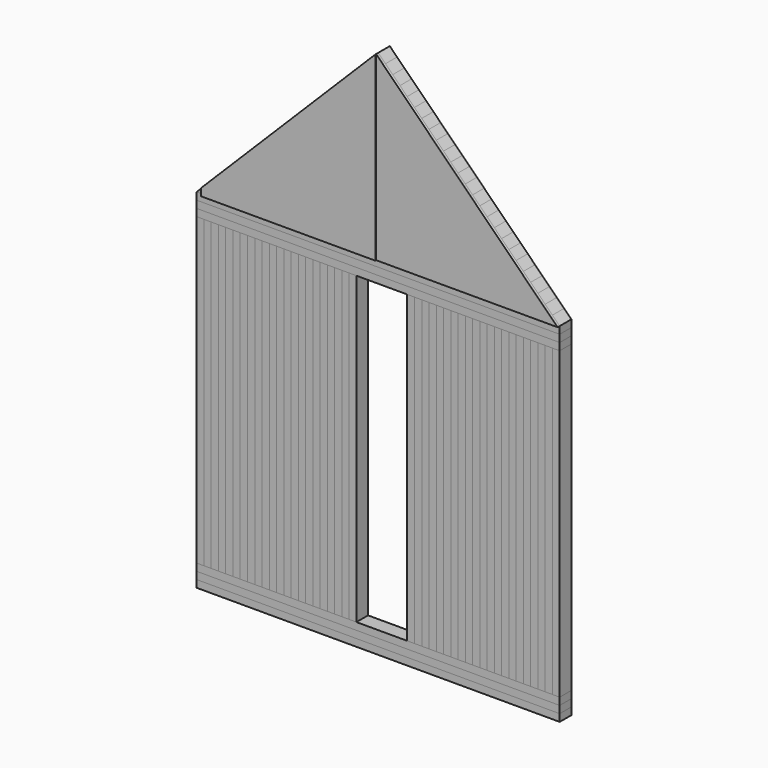
from build123d import *

# Parameters (mm, degrees)
F1_DEPTH  = 100
F2_DEPTH  = 100
F0_W      = 50
F0_H      = 2100
F3_DEPTH  = 100
F0_W_2    = 2500
F0_H_2    = 50
F4_DEPTH  = 100
F6_DEPTH  = 25
F7_DEPTH  = 18
F8_DEPTH  = 100
F9_DEPTH  = 100
F10_DEPTH = 100


with BuildPart() as f1:
    # F0 (on Front) → F1 (new body)
    with BuildSketch(Plane.XZ):
        Polygon((-1807.993851216, 1168.3207270876), (-1857.993851216, 1118.3207270876), (-1807.993851216, 1118.3207270876), align=None)
    extrude(amount=F1_DEPTH)


with BuildPart() as f1b:
    # F0 (on Front) → F1, piece 2 (new body)
    with BuildSketch(Plane.XZ):
        Polygon((-1707.993851216, 1268.3207270876), (-1757.993851216, 1218.3207270876), (-1757.993851216, 1118.3207270876), (-1707.993851216, 1118.3207270876), align=None)
    extrude(amount=F1_DEPTH)


with BuildPart() as f1c:
    # F0 (on Front) → F1, piece 3 (new body)
    with BuildSketch(Plane.XZ):
        Polygon((-1607.993851216, 1368.3207270876), (-1657.993851216, 1318.3207270876), (-1657.993851216, 1118.3207270876), (-1607.993851216, 1118.3207270876), align=None)
    extrude(amount=F1_DEPTH)


with BuildPart() as f1d:
    # F0 (on Front) → F1, piece 4 (new body)
    with BuildSketch(Plane.XZ):
        Polygon((-1507.993851216, 1468.3207270876), (-1557.993851216, 1418.3207270876), (-1557.993851216, 1118.3207270876), (-1507.993851216, 1118.3207270876), align=None)
    extrude(amount=F1_DEPTH)


with BuildPart() as f1e:
    # F0 (on Front) → F1, piece 5 (new body)
    with BuildSketch(Plane.XZ):
        Polygon((-1407.993851216, 1568.3207270876), (-1457.993851216, 1518.3207270876), (-1457.993851216, 1118.3207270876), (-1407.993851216, 1118.3207270876), align=None)
    extrude(amount=F1_DEPTH)


with BuildPart() as f1f:
    # F0 (on Front) → F1, piece 6 (new body)
    with BuildSketch(Plane.XZ):
        Polygon((-1307.993851216, 1668.3207270876), (-1357.993851216, 1618.3207270876), (-1357.993851216, 1118.3207270876), (-1307.993851216, 1118.3207270876), align=None)
    extrude(amount=F1_DEPTH)


with BuildPart() as f1g:
    # F0 (on Front) → F1, piece 7 (new body)
    with BuildSketch(Plane.XZ):
        Polygon((-1207.993851216, 1768.3207270876), (-1257.993851216, 1718.3207270876), (-1257.993851216, 1118.3207270876), (-1207.993851216, 1118.3207270876), align=None)
    extrude(amount=F1_DEPTH)


with BuildPart() as f1h:
    # F0 (on Front) → F1, piece 8 (new body)
    with BuildSketch(Plane.XZ):
        Polygon((-1107.993851216, 1868.3207270876), (-1157.993851216, 1818.3207270876), (-1157.993851216, 1118.3207270876), (-1107.993851216, 1118.3207270876), align=None)
    extrude(amount=F1_DEPTH)


with BuildPart() as f1i:
    # F0 (on Front) → F1, piece 9 (new body)
    with BuildSketch(Plane.XZ):
        Polygon((-1007.993851216, 1968.3207270876), (-1057.993851216, 1918.3207270876), (-1057.993851216, 1118.3207270876), (-1007.993851216, 1118.3207270876), align=None)
    extrude(amount=F1_DEPTH)


with BuildPart() as f1j:
    # F0 (on Front) → F1, piece 10 (new body)
    with BuildSketch(Plane.XZ):
        Polygon((-907.993851216, 2068.3207270876), (-957.993851216, 2018.3207270876), (-957.993851216, 1118.3207270876), (-907.993851216, 1118.3207270876), align=None)
    extrude(amount=F1_DEPTH)


with BuildPart() as f1k:
    # F0 (on Front) → F1, piece 11 (new body)
    with BuildSketch(Plane.XZ):
        Polygon((-807.993851216, 2168.3207270876), (-857.993851216, 2118.3207270876), (-857.993851216, 1118.3207270876), (-807.993851216, 1118.3207270876), align=None)
    extrude(amount=F1_DEPTH)


with BuildPart() as f1l:
    # F0 (on Front) → F1, piece 12 (new body)
    with BuildSketch(Plane.XZ):
        Polygon((-707.993851216, 2268.3207270876), (-757.993851216, 2218.3207270876), (-757.993851216, 1118.3207270876), (-707.993851216, 1118.3207270876), align=None)
    extrude(amount=F1_DEPTH)


with BuildPart() as f1m:
    # F0 (on Front) → F1, piece 13 (new body)
    with BuildSketch(Plane.XZ):
        Polygon((-607.993851216, 2368.3207270876), (-657.993851216, 2318.3207270876), (-657.993851216, 1118.3207270876), (-607.993851216, 1118.3207270876), (-557.993851216, 1118.3207270876), (-557.993851216, 2318.3207270876), align=None)
    extrude(amount=F1_DEPTH)


with BuildPart() as f1n:
    # F0 (on Front) → F1, piece 14 (new body)
    with BuildSketch(Plane.XZ):
        Polygon((-457.993851216, 1118.3207270876), (-457.993851216, 2218.3207270876), (-507.993851216, 2268.3207270876), (-507.993851216, 1118.3207270876), align=None)
    extrude(amount=F1_DEPTH)


with BuildPart() as f1o:
    # F0 (on Front) → F1, piece 15 (new body)
    with BuildSketch(Plane.XZ):
        Polygon((-357.993851216, 1118.3207270876), (-357.993851216, 2118.3207270876), (-407.993851216, 2168.3207270876), (-407.993851216, 1118.3207270876), align=None)
    extrude(amount=F1_DEPTH)


with BuildPart() as f1p:
    # F0 (on Front) → F1, piece 16 (new body)
    with BuildSketch(Plane.XZ):
        Polygon((-257.993851216, 1118.3207270876), (-257.993851216, 2018.3207270876), (-307.993851216, 2068.3207270876), (-307.993851216, 1118.3207270876), align=None)
    extrude(amount=F1_DEPTH)


with BuildPart() as f1q:
    # F0 (on Front) → F1, piece 17 (new body)
    with BuildSketch(Plane.XZ):
        Polygon((-157.993851216, 1118.3207270876), (-157.993851216, 1918.3207270876), (-207.993851216, 1968.3207270876), (-207.993851216, 1118.3207270876), align=None)
    extrude(amount=F1_DEPTH)


with BuildPart() as f1r:
    # F0 (on Front) → F1, piece 18 (new body)
    with BuildSketch(Plane.XZ):
        Polygon((-57.993851216, 1118.3207270876), (-57.993851216, 1818.3207270876), (-107.993851216, 1868.3207270876), (-107.993851216, 1118.3207270876), align=None)
    extrude(amount=F1_DEPTH)


with BuildPart() as f1s:
    # F0 (on Front) → F1, piece 19 (new body)
    with BuildSketch(Plane.XZ):
        Polygon((42.006148784, 1118.3207270876), (42.006148784, 1718.3207270876), (-7.993851216, 1768.3207270876), (-7.993851216, 1118.3207270876), align=None)
    extrude(amount=F1_DEPTH)


with BuildPart() as f1t:
    # F0 (on Front) → F1, piece 20 (new body)
    with BuildSketch(Plane.XZ):
        Polygon((142.006148784, 1118.3207270876), (142.006148784, 1618.3207270876), (92.006148784, 1668.3207270876), (92.006148784, 1118.3207270876), align=None)
    extrude(amount=F1_DEPTH)


with BuildPart() as f1u:
    # F0 (on Front) → F1, piece 21 (new body)
    with BuildSketch(Plane.XZ):
        Polygon((242.006148784, 1118.3207270876), (242.006148784, 1518.3207270876), (192.006148784, 1568.3207270876), (192.006148784, 1118.3207270876), align=None)
    extrude(amount=F1_DEPTH)


with BuildPart() as f1v:
    # F0 (on Front) → F1, piece 22 (new body)
    with BuildSketch(Plane.XZ):
        Polygon((342.006148784, 1118.3207270876), (342.006148784, 1418.3207270876), (292.006148784, 1468.3207270876), (292.006148784, 1118.3207270876), align=None)
    extrude(amount=F1_DEPTH)


with BuildPart() as f1w:
    # F0 (on Front) → F1, piece 23 (new body)
    with BuildSketch(Plane.XZ):
        Polygon((442.006148784, 1118.3207270876), (442.006148784, 1318.3207270876), (392.006148784, 1368.3207270876), (392.006148784, 1118.3207270876), align=None)
    extrude(amount=F1_DEPTH)


with BuildPart() as f1x:
    # F0 (on Front) → F1, piece 24 (new body)
    with BuildSketch(Plane.XZ):
        Polygon((542.006148784, 1118.3207270876), (542.006148784, 1218.3207270876), (492.006148784, 1268.3207270876), (492.006148784, 1118.3207270876), align=None)
    extrude(amount=F1_DEPTH)


with BuildPart() as f1y:
    # F0 (on Front) → F1, piece 25 (new body)
    with BuildSketch(Plane.XZ):
        Polygon((592.006148784, 1118.3207270876), (642.006148784, 1118.3207270876), (592.006148784, 1168.3207270876), align=None)
    extrude(amount=F1_DEPTH)


with BuildPart() as f2:
    # F0 (on Front) → F2 (new body)
    with BuildSketch(Plane.XZ):
        Polygon((-1757.993851216, 1218.3207270876), (-1807.993851216, 1168.3207270876), (-1807.993851216, 1118.3207270876), (-1757.993851216, 1118.3207270876), align=None)
    extrude(amount=F2_DEPTH)


with BuildPart() as f2b:
    # F0 (on Front) → F2, piece 2 (new body)
    with BuildSketch(Plane.XZ):
        Polygon((-1657.993851216, 1318.3207270876), (-1707.993851216, 1268.3207270876), (-1707.993851216, 1118.3207270876), (-1657.993851216, 1118.3207270876), align=None)
    extrude(amount=F2_DEPTH)


with BuildPart() as f2c:
    # F0 (on Front) → F2, piece 3 (new body)
    with BuildSketch(Plane.XZ):
        Polygon((-1557.993851216, 1418.3207270876), (-1607.993851216, 1368.3207270876), (-1607.993851216, 1118.3207270876), (-1557.993851216, 1118.3207270876), align=None)
    extrude(amount=F2_DEPTH)


with BuildPart() as f2d:
    # F0 (on Front) → F2, piece 4 (new body)
    with BuildSketch(Plane.XZ):
        Polygon((-1457.993851216, 1518.3207270876), (-1507.993851216, 1468.3207270876), (-1507.993851216, 1118.3207270876), (-1457.993851216, 1118.3207270876), align=None)
    extrude(amount=F2_DEPTH)


with BuildPart() as f2e:
    # F0 (on Front) → F2, piece 5 (new body)
    with BuildSketch(Plane.XZ):
        Polygon((-1357.993851216, 1618.3207270876), (-1407.993851216, 1568.3207270876), (-1407.993851216, 1118.3207270876), (-1357.993851216, 1118.3207270876), align=None)
    extrude(amount=F2_DEPTH)


with BuildPart() as f2f:
    # F0 (on Front) → F2, piece 6 (new body)
    with BuildSketch(Plane.XZ):
        Polygon((-1257.993851216, 1718.3207270876), (-1307.993851216, 1668.3207270876), (-1307.993851216, 1118.3207270876), (-1257.993851216, 1118.3207270876), align=None)
    extrude(amount=F2_DEPTH)


with BuildPart() as f2g:
    # F0 (on Front) → F2, piece 7 (new body)
    with BuildSketch(Plane.XZ):
        Polygon((-1157.993851216, 1818.3207270876), (-1207.993851216, 1768.3207270876), (-1207.993851216, 1118.3207270876), (-1157.993851216, 1118.3207270876), align=None)
    extrude(amount=F2_DEPTH)


with BuildPart() as f2h:
    # F0 (on Front) → F2, piece 8 (new body)
    with BuildSketch(Plane.XZ):
        Polygon((-1057.993851216, 1918.3207270876), (-1107.993851216, 1868.3207270876), (-1107.993851216, 1118.3207270876), (-1057.993851216, 1118.3207270876), align=None)
    extrude(amount=F2_DEPTH)


with BuildPart() as f2i:
    # F0 (on Front) → F2, piece 9 (new body)
    with BuildSketch(Plane.XZ):
        Polygon((-957.993851216, 2018.3207270876), (-1007.993851216, 1968.3207270876), (-1007.993851216, 1118.3207270876), (-957.993851216, 1118.3207270876), align=None)
    extrude(amount=F2_DEPTH)


with BuildPart() as f2j:
    # F0 (on Front) → F2, piece 10 (new body)
    with BuildSketch(Plane.XZ):
        Polygon((-857.993851216, 2118.3207270876), (-907.993851216, 2068.3207270876), (-907.993851216, 1118.3207270876), (-857.993851216, 1118.3207270876), align=None)
    extrude(amount=F2_DEPTH)


with BuildPart() as f2k:
    # F0 (on Front) → F2, piece 11 (new body)
    with BuildSketch(Plane.XZ):
        Polygon((-757.993851216, 2218.3207270876), (-807.993851216, 2168.3207270876), (-807.993851216, 1118.3207270876), (-757.993851216, 1118.3207270876), align=None)
    extrude(amount=F2_DEPTH)


with BuildPart() as f2l:
    # F0 (on Front) → F2, piece 12 (new body)
    with BuildSketch(Plane.XZ):
        Polygon((-657.993851216, 2318.3207270876), (-707.993851216, 2268.3207270876), (-707.993851216, 1118.3207270876), (-657.993851216, 1118.3207270876), align=None)
    extrude(amount=F2_DEPTH)


with BuildPart() as f2m:
    # F0 (on Front) → F2, piece 13 (new body)
    with BuildSketch(Plane.XZ):
        Polygon((-507.993851216, 1118.3207270876), (-507.993851216, 2268.3207270876), (-557.993851216, 2318.3207270876), (-557.993851216, 1118.3207270876), align=None)
    extrude(amount=F2_DEPTH)


with BuildPart() as f2n:
    # F0 (on Front) → F2, piece 14 (new body)
    with BuildSketch(Plane.XZ):
        Polygon((-407.993851216, 1118.3207270876), (-407.993851216, 2168.3207270876), (-457.993851216, 2218.3207270876), (-457.993851216, 1118.3207270876), align=None)
    extrude(amount=F2_DEPTH)


with BuildPart() as f2o:
    # F0 (on Front) → F2, piece 15 (new body)
    with BuildSketch(Plane.XZ):
        Polygon((-307.993851216, 1118.3207270876), (-307.993851216, 2068.3207270876), (-357.993851216, 2118.3207270876), (-357.993851216, 1118.3207270876), align=None)
    extrude(amount=F2_DEPTH)


with BuildPart() as f2p:
    # F0 (on Front) → F2, piece 16 (new body)
    with BuildSketch(Plane.XZ):
        Polygon((-207.993851216, 1118.3207270876), (-207.993851216, 1968.3207270876), (-257.993851216, 2018.3207270876), (-257.993851216, 1118.3207270876), align=None)
    extrude(amount=F2_DEPTH)


with BuildPart() as f2q:
    # F0 (on Front) → F2, piece 17 (new body)
    with BuildSketch(Plane.XZ):
        Polygon((-107.993851216, 1118.3207270876), (-107.993851216, 1868.3207270876), (-157.993851216, 1918.3207270876), (-157.993851216, 1118.3207270876), align=None)
    extrude(amount=F2_DEPTH)


with BuildPart() as f2r:
    # F0 (on Front) → F2, piece 18 (new body)
    with BuildSketch(Plane.XZ):
        Polygon((-7.993851216, 1118.3207270876), (-7.993851216, 1768.3207270876), (-57.993851216, 1818.3207270876), (-57.993851216, 1118.3207270876), align=None)
    extrude(amount=F2_DEPTH)


with BuildPart() as f2s:
    # F0 (on Front) → F2, piece 19 (new body)
    with BuildSketch(Plane.XZ):
        Polygon((92.006148784, 1118.3207270876), (92.006148784, 1668.3207270876), (42.006148784, 1718.3207270876), (42.006148784, 1118.3207270876), align=None)
    extrude(amount=F2_DEPTH)


with BuildPart() as f2t:
    # F0 (on Front) → F2, piece 20 (new body)
    with BuildSketch(Plane.XZ):
        Polygon((192.006148784, 1118.3207270876), (192.006148784, 1568.3207270876), (142.006148784, 1618.3207270876), (142.006148784, 1118.3207270876), align=None)
    extrude(amount=F2_DEPTH)


with BuildPart() as f2u:
    # F0 (on Front) → F2, piece 21 (new body)
    with BuildSketch(Plane.XZ):
        Polygon((292.006148784, 1118.3207270876), (292.006148784, 1468.3207270876), (242.006148784, 1518.3207270876), (242.006148784, 1118.3207270876), align=None)
    extrude(amount=F2_DEPTH)


with BuildPart() as f2v:
    # F0 (on Front) → F2, piece 22 (new body)
    with BuildSketch(Plane.XZ):
        Polygon((392.006148784, 1118.3207270876), (392.006148784, 1368.3207270876), (342.006148784, 1418.3207270876), (342.006148784, 1118.3207270876), align=None)
    extrude(amount=F2_DEPTH)


with BuildPart() as f2w:
    # F0 (on Front) → F2, piece 23 (new body)
    with BuildSketch(Plane.XZ):
        Polygon((492.006148784, 1118.3207270876), (492.006148784, 1268.3207270876), (442.006148784, 1318.3207270876), (442.006148784, 1118.3207270876), align=None)
    extrude(amount=F2_DEPTH)


with BuildPart() as f2x:
    # F0 (on Front) → F2, piece 24 (new body)
    with BuildSketch(Plane.XZ):
        Polygon((592.006148784, 1118.3207270876), (592.006148784, 1168.3207270876), (542.006148784, 1218.3207270876), (542.006148784, 1118.3207270876), align=None)
    extrude(amount=F2_DEPTH)


with BuildPart() as f3:
    # F0 (on Front) → F3 (new body)
    with BuildSketch(Plane.XZ):
        with Locations((-1832.993851216, -81.6792729124)):
            Rectangle(F0_W, F0_H)
    extrude(amount=F3_DEPTH)


with BuildPart() as f3b:
    # F0 (on Front) → F3, piece 2 (new body)
    with BuildSketch(Plane.XZ):
        with Locations((-1732.993851216, -81.6792729124)):
            Rectangle(F0_W, F0_H)
    extrude(amount=F3_DEPTH)


with BuildPart() as f3c:
    # F0 (on Front) → F3, piece 3 (new body)
    with BuildSketch(Plane.XZ):
        with Locations((-607.993851216, -1206.6792729124)):
            Rectangle(F0_W_2, F0_H_2)
    extrude(amount=F3_DEPTH)


with BuildPart() as f3d:
    # F0 (on Front) → F3, piece 4 (new body)
    with BuildSketch(Plane.XZ):
        with Locations((517.006148784, -81.6792729124)):
            Rectangle(F0_W, F0_H)
    extrude(amount=F3_DEPTH)


with BuildPart() as f3e:
    # F0 (on Front) → F3, piece 5 (new body)
    with BuildSketch(Plane.XZ):
        with Locations((617.006148784, -81.6792729124)):
            Rectangle(F0_W, F0_H)
    extrude(amount=F3_DEPTH)


with BuildPart() as f3f:
    # F0 (on Front) → F3, piece 6 (new body)
    with BuildSketch(Plane.XZ):
        with Locations((-607.993851216, 1043.3207270876)):
            Rectangle(F0_W_2, F0_H_2)
    extrude(amount=F3_DEPTH)


with BuildPart() as f4:
    # F0 (on Front) → F4 (new body)
    with BuildSketch(Plane.XZ):
        Polygon((-1857.993851216, 1118.3207270876), (-1857.993851216, 1068.3207270876), (642.006148784, 1068.3207270876), (642.006148784, 1118.3207270876), (592.006148784, 1118.3207270876), (542.006148784, 1118.3207270876), (492.006148784, 1118.3207270876), (442.006148784, 1118.3207270876), (392.006148784, 1118.3207270876), (342.006148784, 1118.3207270876), (292.006148784, 1118.3207270876), (242.006148784, 1118.3207270876), (192.006148784, 1118.3207270876), (142.006148784, 1118.3207270876), (92.006148784, 1118.3207270876), (42.006148784, 1118.3207270876), (-7.993851216, 1118.3207270876), (-57.993851216, 1118.3207270876), (-107.993851216, 1118.3207270876), (-157.993851216, 1118.3207270876), (-207.993851216, 1118.3207270876), (-257.993851216, 1118.3207270876), (-307.993851216, 1118.3207270876), (-357.993851216, 1118.3207270876), (-407.993851216, 1118.3207270876), (-457.993851216, 1118.3207270876), (-507.993851216, 1118.3207270876), (-557.993851216, 1118.3207270876), (-607.993851216, 1118.3207270876), (-657.993851216, 1118.3207270876), (-707.993851216, 1118.3207270876), (-757.993851216, 1118.3207270876), (-807.993851216, 1118.3207270876), (-857.993851216, 1118.3207270876), (-907.993851216, 1118.3207270876), (-957.993851216, 1118.3207270876), (-1007.993851216, 1118.3207270876), (-1057.993851216, 1118.3207270876), (-1107.993851216, 1118.3207270876), (-1157.993851216, 1118.3207270876), (-1207.993851216, 1118.3207270876), (-1257.993851216, 1118.3207270876), (-1307.993851216, 1118.3207270876), (-1357.993851216, 1118.3207270876), (-1407.993851216, 1118.3207270876), (-1457.993851216, 1118.3207270876), (-1507.993851216, 1118.3207270876), (-1557.993851216, 1118.3207270876), (-1607.993851216, 1118.3207270876), (-1657.993851216, 1118.3207270876), (-1707.993851216, 1118.3207270876), (-1757.993851216, 1118.3207270876), (-1807.993851216, 1118.3207270876), align=None)
    extrude(amount=F4_DEPTH)


with BuildPart() as f4b:
    # F0 (on Front) → F4, piece 2 (new body)
    with BuildSketch(Plane.XZ):
        Polygon((-1857.993851216, 1018.3207270876), (-1857.993851216, 968.3207270876), (-1807.993851216, 968.3207270876), (-1757.993851216, 968.3207270876), (-1707.993851216, 968.3207270876), (-1657.993851216, 968.3207270876), (-1607.993851216, 968.3207270876), (-1557.993851216, 968.3207270876), (-1507.993851216, 968.3207270876), (-1457.993851216, 968.3207270876), (-1407.993851216, 968.3207270876), (-1357.993851216, 968.3207270876), (-1307.993851216, 968.3207270876), (-1257.993851216, 968.3207270876), (-1207.993851216, 968.3207270876), (-1157.993851216, 968.3207270876), (-1107.993851216, 968.3207270876), (-1057.993851216, 968.3207270876), (-1007.993851216, 968.3207270876), (-957.993851216, 968.3207270876), (-907.993851216, 968.3207270876), (-857.993851216, 968.3207270876), (-807.993851216, 968.3207270876), (-757.993851216, 968.3207270876), (-407.993851216, 968.3207270876), (-357.993851216, 968.3207270876), (-307.993851216, 968.3207270876), (-257.993851216, 968.3207270876), (-207.993851216, 968.3207270876), (-157.993851216, 968.3207270876), (-107.993851216, 968.3207270876), (-57.993851216, 968.3207270876), (-7.993851216, 968.3207270876), (42.006148784, 968.3207270876), (92.006148784, 968.3207270876), (142.006148784, 968.3207270876), (192.006148784, 968.3207270876), (242.006148784, 968.3207270876), (292.006148784, 968.3207270876), (342.006148784, 968.3207270876), (392.006148784, 968.3207270876), (442.006148784, 968.3207270876), (492.006148784, 968.3207270876), (542.006148784, 968.3207270876), (592.006148784, 968.3207270876), (642.006148784, 968.3207270876), (642.006148784, 1018.3207270876), align=None)
    extrude(amount=F4_DEPTH)


with BuildPart() as f4c:
    # F0 (on Front) → F4, piece 3 (new body)
    with BuildSketch(Plane.XZ):
        Polygon((-1857.993851216, -1131.6792729124), (-1857.993851216, -1181.6792729124), (642.006148784, -1181.6792729124), (642.006148784, -1131.6792729124), (592.006148784, -1131.6792729124), (542.006148784, -1131.6792729124), (492.006148784, -1131.6792729124), (442.006148784, -1131.6792729124), (392.006148784, -1131.6792729124), (342.006148784, -1131.6792729124), (292.006148784, -1131.6792729124), (242.006148784, -1131.6792729124), (192.006148784, -1131.6792729124), (142.006148784, -1131.6792729124), (92.006148784, -1131.6792729124), (42.006148784, -1131.6792729124), (-7.993851216, -1131.6792729124), (-57.993851216, -1131.6792729124), (-107.993851216, -1131.6792729124), (-157.993851216, -1131.6792729124), (-207.993851216, -1131.6792729124), (-257.993851216, -1131.6792729124), (-307.993851216, -1131.6792729124), (-357.993851216, -1131.6792729124), (-407.993851216, -1131.6792729124), (-757.993851216, -1131.6792729124), (-807.993851216, -1131.6792729124), (-857.993851216, -1131.6792729124), (-907.993851216, -1131.6792729124), (-957.993851216, -1131.6792729124), (-1007.993851216, -1131.6792729124), (-1057.993851216, -1131.6792729124), (-1107.993851216, -1131.6792729124), (-1157.993851216, -1131.6792729124), (-1207.993851216, -1131.6792729124), (-1257.993851216, -1131.6792729124), (-1307.993851216, -1131.6792729124), (-1357.993851216, -1131.6792729124), (-1407.993851216, -1131.6792729124), (-1457.993851216, -1131.6792729124), (-1507.993851216, -1131.6792729124), (-1557.993851216, -1131.6792729124), (-1607.993851216, -1131.6792729124), (-1657.993851216, -1131.6792729124), (-1707.993851216, -1131.6792729124), (-1757.993851216, -1131.6792729124), (-1807.993851216, -1131.6792729124), align=None)
    extrude(amount=F4_DEPTH)


with BuildPart() as f4d:
    # F0 (on Front) → F4, piece 4 (new body)
    with BuildSketch(Plane.XZ):
        with Locations((-607.993851216, -1256.6792729124)):
            Rectangle(F0_W_2, F0_H_2)
    extrude(amount=F4_DEPTH)


with BuildPart() as f6:
    # F5 (on face) → F6 (new body)
    with BuildSketch(Plane.XZ.offset(100)):
        Polygon((-607.993851216, 2368.3207270876), (-1807.993851216, 1168.3207270876), (-1807.993851216, 1118.3207270876), (-607.993851216, 1118.3207270876), align=None)
    extrude(amount=F6_DEPTH)


with BuildPart() as f7:
    # F5 (on face) → F7 (new body)
    with BuildSketch(Plane.XZ.offset(100)):
        Polygon((642.006148784, 1118.3207270876), (-607.993851216, 2368.3207270876), (-607.993851216, 1118.3207270876), align=None)
    extrude(amount=F7_DEPTH)


with BuildPart() as f8:
    # F0 (on Front) → F8 (new body)
    with BuildSketch(Plane.XZ):
        with Locations((-1782.993851216, -81.6792729124)):
            Rectangle(F0_W, F0_H)
    extrude(amount=F8_DEPTH)


with BuildPart() as f8b:
    # F0 (on Front) → F8, piece 2 (new body)
    with BuildSketch(Plane.XZ):
        with Locations((-1682.993851216, -81.6792729124)):
            Rectangle(F0_W, F0_H)
    extrude(amount=F8_DEPTH)


with BuildPart() as f8c:
    # F0 (on Front) → F8, piece 3 (new body)
    with BuildSketch(Plane.XZ):
        with Locations((-1582.993851216, -81.6792729124)):
            Rectangle(F0_W, F0_H)
    extrude(amount=F8_DEPTH)


with BuildPart() as f8d:
    # F0 (on Front) → F8, piece 4 (new body)
    with BuildSketch(Plane.XZ):
        with Locations((-1482.993851216, -81.6792729124)):
            Rectangle(F0_W, F0_H)
    extrude(amount=F8_DEPTH)


with BuildPart() as f8e:
    # F0 (on Front) → F8, piece 5 (new body)
    with BuildSketch(Plane.XZ):
        with Locations((-1382.993851216, -81.6792729124)):
            Rectangle(F0_W, F0_H)
    extrude(amount=F8_DEPTH)


with BuildPart() as f8f:
    # F0 (on Front) → F8, piece 6 (new body)
    with BuildSketch(Plane.XZ):
        with Locations((-1282.993851216, -81.6792729124)):
            Rectangle(F0_W, F0_H)
    extrude(amount=F8_DEPTH)


with BuildPart() as f8g:
    # F0 (on Front) → F8, piece 7 (new body)
    with BuildSketch(Plane.XZ):
        with Locations((-1182.993851216, -81.6792729124)):
            Rectangle(F0_W, F0_H)
    extrude(amount=F8_DEPTH)


with BuildPart() as f8h:
    # F0 (on Front) → F8, piece 8 (new body)
    with BuildSketch(Plane.XZ):
        with Locations((-1082.993851216, -81.6792729124)):
            Rectangle(F0_W, F0_H)
    extrude(amount=F8_DEPTH)


with BuildPart() as f8i:
    # F0 (on Front) → F8, piece 9 (new body)
    with BuildSketch(Plane.XZ):
        with Locations((-982.993851216, -81.6792729124)):
            Rectangle(F0_W, F0_H)
    extrude(amount=F8_DEPTH)


with BuildPart() as f8j:
    # F0 (on Front) → F8, piece 10 (new body)
    with BuildSketch(Plane.XZ):
        with Locations((-882.993851216, -81.6792729124)):
            Rectangle(F0_W, F0_H)
    extrude(amount=F8_DEPTH)


with BuildPart() as f8k:
    # F0 (on Front) → F8, piece 11 (new body)
    with BuildSketch(Plane.XZ):
        with Locations((-782.993851216, -81.6792729124)):
            Rectangle(F0_W, F0_H)
    extrude(amount=F8_DEPTH)


with BuildPart() as f8l:
    # F0 (on Front) → F8, piece 12 (new body)
    with BuildSketch(Plane.XZ):
        with Locations((567.006148784, -81.6792729124)):
            Rectangle(F0_W, F0_H)
    extrude(amount=F8_DEPTH)


with BuildPart() as f8m:
    # F0 (on Front) → F8, piece 13 (new body)
    with BuildSketch(Plane.XZ):
        with Locations((467.006148784, -81.6792729124)):
            Rectangle(F0_W, F0_H)
    extrude(amount=F8_DEPTH)


with BuildPart() as f8n:
    # F0 (on Front) → F8, piece 14 (new body)
    with BuildSketch(Plane.XZ):
        with Locations((367.006148784, -81.6792729124)):
            Rectangle(F0_W, F0_H)
    extrude(amount=F8_DEPTH)


with BuildPart() as f8o:
    # F0 (on Front) → F8, piece 15 (new body)
    with BuildSketch(Plane.XZ):
        with Locations((267.006148784, -81.6792729124)):
            Rectangle(F0_W, F0_H)
    extrude(amount=F8_DEPTH)


with BuildPart() as f8p:
    # F0 (on Front) → F8, piece 16 (new body)
    with BuildSketch(Plane.XZ):
        with Locations((167.006148784, -81.6792729124)):
            Rectangle(F0_W, F0_H)
    extrude(amount=F8_DEPTH)


with BuildPart() as f8q:
    # F0 (on Front) → F8, piece 17 (new body)
    with BuildSketch(Plane.XZ):
        with Locations((67.006148784, -81.6792729124)):
            Rectangle(F0_W, F0_H)
    extrude(amount=F8_DEPTH)


with BuildPart() as f8r:
    # F0 (on Front) → F8, piece 18 (new body)
    with BuildSketch(Plane.XZ):
        with Locations((-32.993851216, -81.6792729124)):
            Rectangle(F0_W, F0_H)
    extrude(amount=F8_DEPTH)


with BuildPart() as f8s:
    # F0 (on Front) → F8, piece 19 (new body)
    with BuildSketch(Plane.XZ):
        with Locations((-132.993851216, -81.6792729124)):
            Rectangle(F0_W, F0_H)
    extrude(amount=F8_DEPTH)


with BuildPart() as f8t:
    # F0 (on Front) → F8, piece 20 (new body)
    with BuildSketch(Plane.XZ):
        with Locations((-232.993851216, -81.6792729124)):
            Rectangle(F0_W, F0_H)
    extrude(amount=F8_DEPTH)


with BuildPart() as f8u:
    # F0 (on Front) → F8, piece 21 (new body)
    with BuildSketch(Plane.XZ):
        with Locations((-332.993851216, -81.6792729124)):
            Rectangle(F0_W, F0_H)
    extrude(amount=F8_DEPTH)


with BuildPart() as f9:
    # F0 (on Front) → F9 (new body)
    with BuildSketch(Plane.XZ):
        with Locations((-1632.993851216, -81.6792729124)):
            Rectangle(F0_W, F0_H)
    extrude(amount=F9_DEPTH)


with BuildPart() as f9b:
    # F0 (on Front) → F9, piece 2 (new body)
    with BuildSketch(Plane.XZ):
        with Locations((-1532.993851216, -81.6792729124)):
            Rectangle(F0_W, F0_H)
    extrude(amount=F9_DEPTH)


with BuildPart() as f9c:
    # F0 (on Front) → F9, piece 3 (new body)
    with BuildSketch(Plane.XZ):
        with Locations((-1432.993851216, -81.6792729124)):
            Rectangle(F0_W, F0_H)
    extrude(amount=F9_DEPTH)


with BuildPart() as f9d:
    # F0 (on Front) → F9, piece 4 (new body)
    with BuildSketch(Plane.XZ):
        with Locations((-1332.993851216, -81.6792729124)):
            Rectangle(F0_W, F0_H)
    extrude(amount=F9_DEPTH)


with BuildPart() as f9e:
    # F0 (on Front) → F9, piece 5 (new body)
    with BuildSketch(Plane.XZ):
        with Locations((-1232.993851216, -81.6792729124)):
            Rectangle(F0_W, F0_H)
    extrude(amount=F9_DEPTH)


with BuildPart() as f9f:
    # F0 (on Front) → F9, piece 6 (new body)
    with BuildSketch(Plane.XZ):
        with Locations((-1132.993851216, -81.6792729124)):
            Rectangle(F0_W, F0_H)
    extrude(amount=F9_DEPTH)


with BuildPart() as f9g:
    # F0 (on Front) → F9, piece 7 (new body)
    with BuildSketch(Plane.XZ):
        with Locations((-1032.993851216, -81.6792729124)):
            Rectangle(F0_W, F0_H)
    extrude(amount=F9_DEPTH)


with BuildPart() as f9h:
    # F0 (on Front) → F9, piece 8 (new body)
    with BuildSketch(Plane.XZ):
        with Locations((-932.993851216, -81.6792729124)):
            Rectangle(F0_W, F0_H)
    extrude(amount=F9_DEPTH)


with BuildPart() as f9i:
    # F0 (on Front) → F9, piece 9 (new body)
    with BuildSketch(Plane.XZ):
        with Locations((-832.993851216, -81.6792729124)):
            Rectangle(F0_W, F0_H)
    extrude(amount=F9_DEPTH)


with BuildPart() as f9j:
    # F0 (on Front) → F9, piece 10 (new body)
    with BuildSketch(Plane.XZ):
        with Locations((467.006148784, -81.6792729124)):
            Rectangle(F0_W, F0_H)
    extrude(amount=F9_DEPTH)


with BuildPart() as f9k:
    # F0 (on Front) → F9, piece 11 (new body)
    with BuildSketch(Plane.XZ):
        with Locations((367.006148784, -81.6792729124)):
            Rectangle(F0_W, F0_H)
    extrude(amount=F9_DEPTH)


with BuildPart() as f9l:
    # F0 (on Front) → F9, piece 12 (new body)
    with BuildSketch(Plane.XZ):
        with Locations((267.006148784, -81.6792729124)):
            Rectangle(F0_W, F0_H)
    extrude(amount=F9_DEPTH)


with BuildPart() as f9m:
    # F0 (on Front) → F9, piece 13 (new body)
    with BuildSketch(Plane.XZ):
        with Locations((167.006148784, -81.6792729124)):
            Rectangle(F0_W, F0_H)
    extrude(amount=F9_DEPTH)


with BuildPart() as f9n:
    # F0 (on Front) → F9, piece 14 (new body)
    with BuildSketch(Plane.XZ):
        with Locations((67.006148784, -81.6792729124)):
            Rectangle(F0_W, F0_H)
    extrude(amount=F9_DEPTH)


with BuildPart() as f9o:
    # F0 (on Front) → F9, piece 15 (new body)
    with BuildSketch(Plane.XZ):
        with Locations((-32.993851216, -81.6792729124)):
            Rectangle(F0_W, F0_H)
    extrude(amount=F9_DEPTH)


with BuildPart() as f9p:
    # F0 (on Front) → F9, piece 16 (new body)
    with BuildSketch(Plane.XZ):
        with Locations((-132.993851216, -81.6792729124)):
            Rectangle(F0_W, F0_H)
    extrude(amount=F9_DEPTH)


with BuildPart() as f9q:
    # F0 (on Front) → F9, piece 17 (new body)
    with BuildSketch(Plane.XZ):
        with Locations((-232.993851216, -81.6792729124)):
            Rectangle(F0_W, F0_H)
    extrude(amount=F9_DEPTH)


with BuildPart() as f9r:
    # F0 (on Front) → F9, piece 18 (new body)
    with BuildSketch(Plane.XZ):
        with Locations((-332.993851216, -81.6792729124)):
            Rectangle(F0_W, F0_H)
    extrude(amount=F9_DEPTH)


with BuildPart() as f10:
    # F0 (on Front) → F10 (new body)
    with BuildSketch(Plane.XZ):
        with Locations((-382.993851216, -81.6792729124)):
            Rectangle(F0_W, F0_H)
    extrude(amount=F10_DEPTH)


with BuildPart() as f10b:
    # F0 (on Front) → F10, piece 2 (new body)
    with BuildSketch(Plane.XZ):
        with Locations((-282.993851216, -81.6792729124)):
            Rectangle(F0_W, F0_H)
    extrude(amount=F10_DEPTH)


with BuildPart() as f10c:
    # F0 (on Front) → F10, piece 3 (new body)
    with BuildSketch(Plane.XZ):
        with Locations((-182.993851216, -81.6792729124)):
            Rectangle(F0_W, F0_H)
    extrude(amount=F10_DEPTH)


with BuildPart() as f10d:
    # F0 (on Front) → F10, piece 4 (new body)
    with BuildSketch(Plane.XZ):
        with Locations((-82.993851216, -81.6792729124)):
            Rectangle(F0_W, F0_H)
    extrude(amount=F10_DEPTH)


with BuildPart() as f10e:
    # F0 (on Front) → F10, piece 5 (new body)
    with BuildSketch(Plane.XZ):
        with Locations((17.006148784, -81.6792729124)):
            Rectangle(F0_W, F0_H)
    extrude(amount=F10_DEPTH)


with BuildPart() as f10f:
    # F0 (on Front) → F10, piece 6 (new body)
    with BuildSketch(Plane.XZ):
        with Locations((117.006148784, -81.6792729124)):
            Rectangle(F0_W, F0_H)
    extrude(amount=F10_DEPTH)


with BuildPart() as f10g:
    # F0 (on Front) → F10, piece 7 (new body)
    with BuildSketch(Plane.XZ):
        with Locations((217.006148784, -81.6792729124)):
            Rectangle(F0_W, F0_H)
    extrude(amount=F10_DEPTH)


with BuildPart() as f10h:
    # F0 (on Front) → F10, piece 8 (new body)
    with BuildSketch(Plane.XZ):
        with Locations((317.006148784, -81.6792729124)):
            Rectangle(F0_W, F0_H)
    extrude(amount=F10_DEPTH)


with BuildPart() as f10i:
    # F0 (on Front) → F10, piece 9 (new body)
    with BuildSketch(Plane.XZ):
        with Locations((417.006148784, -81.6792729124)):
            Rectangle(F0_W, F0_H)
    extrude(amount=F10_DEPTH)


solid = Compound([f1.part, f1b.part, f1c.part, f1d.part, f1e.part, f1f.part, f1g.part, f1h.part, f1i.part, f1j.part, f1k.part, f1l.part, f1m.part, f1n.part, f1o.part, f1p.part, f1q.part, f1r.part, f1s.part, f1t.part, f1u.part, f1v.part, f1w.part, f1x.part, f1y.part, f2.part, f2b.part, f2c.part, f2d.part, f2e.part, f2f.part, f2g.part, f2h.part, f2i.part, f2j.part, f2k.part, f2l.part, f2m.part, f2n.part, f2o.part, f2p.part, f2q.part, f2r.part, f2s.part, f2t.part, f2u.part, f2v.part, f2w.part, f2x.part, f3.part, f3b.part, f3c.part, f3d.part, f3e.part, f3f.part, f4.part, f4b.part, f4c.part, f4d.part, f6.part, f7.part, f8.part, f8b.part, f8c.part, f8d.part, f8e.part, f8f.part, f8g.part, f8h.part, f8i.part, f8j.part, f8k.part, f8l.part, f8m.part, f8n.part, f8o.part, f8p.part, f8q.part, f8r.part, f8s.part, f8t.part, f8u.part, f9.part, f9b.part, f9c.part, f9d.part, f9e.part, f9f.part, f9g.part, f9h.part, f9i.part, f9j.part, f9k.part, f9l.part, f9m.part, f9n.part, f9o.part, f9p.part, f9q.part, f9r.part, f10.part, f10b.part, f10c.part, f10d.part, f10e.part, f10f.part, f10g.part, f10h.part, f10i.part])
